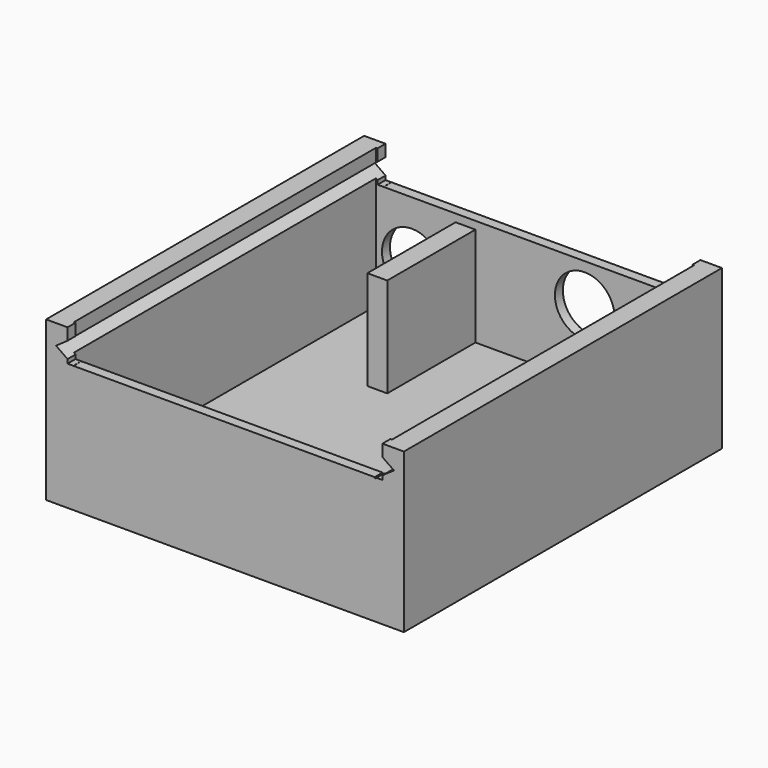
from build123d import *

# Parameters (mm, degrees)
F0_W      = 45.72
F0_H      = 50.8
F1_DEPTH  = 20.32
F2_W      = 40.64
F2_H      = 48.26
F3_DEPTH  = 17.78
F6_DEPTH  = 76.2
F7_W      = 40.2336
F7_H      = 13.4213150721
F8_DEPTH  = 76.2
F9_R      = 3.81
F10_DEPTH = 25.4
F11_R     = 3.81
F12_DEPTH = 25.4
F13_W     = 30.48
F13_H     = 7.3176570747
F14_DEPTH = 25.4
F16_W     = 85.4751653969
F16_H     = 36.5072973073
F17_DEPTH = 27.4827411682
F4_W      = 45.72
F4_H      = 20.32
F18_DEPTH = 1295.4
F19_W     = 2.54
F19_H     = 14.0831380416
F20_DEPTH = 12.7


with BuildPart() as f1:
    # F0 (on Top) → F1 (new body)
    with BuildSketch(Plane.XY):
        with Locations((0.3116804636, 2.0817411682)):
            Rectangle(F0_W, F0_H)
    extrude(amount=F1_DEPTH)

    # F2 (on face) → F3 (cut)
    with BuildSketch(Plane(origin=(0, 0, 0), x_dir=(1, 0, 0), z_dir=(0, 0, -1))):
        with Locations((0.3116804636, -2.0817411682)):
            Rectangle(F2_W, F2_H)
    extrude(amount=-F3_DEPTH, mode=Mode.SUBTRACT)

    # F5 (on face) → F6 (cut)
    with BuildSketch(Plane(origin=(0, 27.4817411682, 0), x_dir=(-1, 0, 0), z_dir=(0, 1, 0))):
        Polygon((7.4571696945, -7.1376733061), (21.2783195364, 2.54), (19.0544535564, 4.0971677232), align=None)
        Polygon((-16.4789422694, -1.2570421612), (-19.511084422, 4.2139133691), (-21.9016804636, 2.54), align=None)
    extrude(amount=-F6_DEPTH, mode=Mode.SUBTRACT)

    # F7 (on face) → F8 (cut)
    with BuildSketch(Plane(origin=(0, 27.4817411682, 0), x_dir=(-1, 0, 0), z_dir=(0, 1, 0))):
        with Locations((-0.3116804636, -2.6208243798)):
            Rectangle(F7_W, F7_H)
    extrude(amount=-F8_DEPTH, mode=Mode.SUBTRACT)

    # F9 (on face) → F10 (cut)
    with BuildSketch(Plane(origin=(0, 27.4817411682, 0), x_dir=(-1, 0, 0), z_dir=(0, 1, 0))):
        with Locations((-6.658220198, 9.1409003362)):
            Circle(F9_R)
    extrude(amount=-F10_DEPTH, mode=Mode.SUBTRACT)

    # F11 (on face) → F12 (cut)
    with BuildSketch(Plane(origin=(0, 27.4817411682, 0), x_dir=(-1, 0, 0), z_dir=(0, 1, 0))):
        with Locations((15.4363195364, 11.43)):
            Circle(F11_R)
    extrude(amount=-F12_DEPTH, mode=Mode.SUBTRACT)

    # F13 (on face) → F14 (cut)
    with BuildSketch(Plane.XY.offset(20.32)):
        with Locations((0.3116804636, -15.6860221177)):
            Rectangle(F13_W, F13_H)
    extrude(amount=-F14_DEPTH, mode=Mode.SUBTRACT)

    # F15: F1 across plane


with BuildPart() as f1_1:
    add(f1.part)
    add(f1.part.mirror(Plane.XY))

    # F16 (on Front) → F17 (cut, through all)
    with BuildSketch(Plane.XZ):
        with Locations((-9.5093864948, 18.2536486536)):
            Rectangle(F16_W, F16_H)
    extrude(amount=-F17_DEPTH, mode=Mode.SUBTRACT)

    # F4 (on face) → F18 (cut)
    with BuildSketch(Plane(origin=(0, 27.4817411682, 0), x_dir=(-1, 0, 0), z_dir=(0, 1, 0))):
        with Locations((-0.3116804636, 10.16)):
            Rectangle(F4_W, F4_H)
    extrude(amount=-F18_DEPTH, mode=Mode.SUBTRACT)

    # F19 (on face) → F20 (join)
    with BuildSketch(Plane.XY.offset(-17.78)):
        with Locations((-8.5783195364, 19.1701721474)):
            Rectangle(F19_W, F19_H)
    extrude(amount=F20_DEPTH)


solid = f1_1.part
